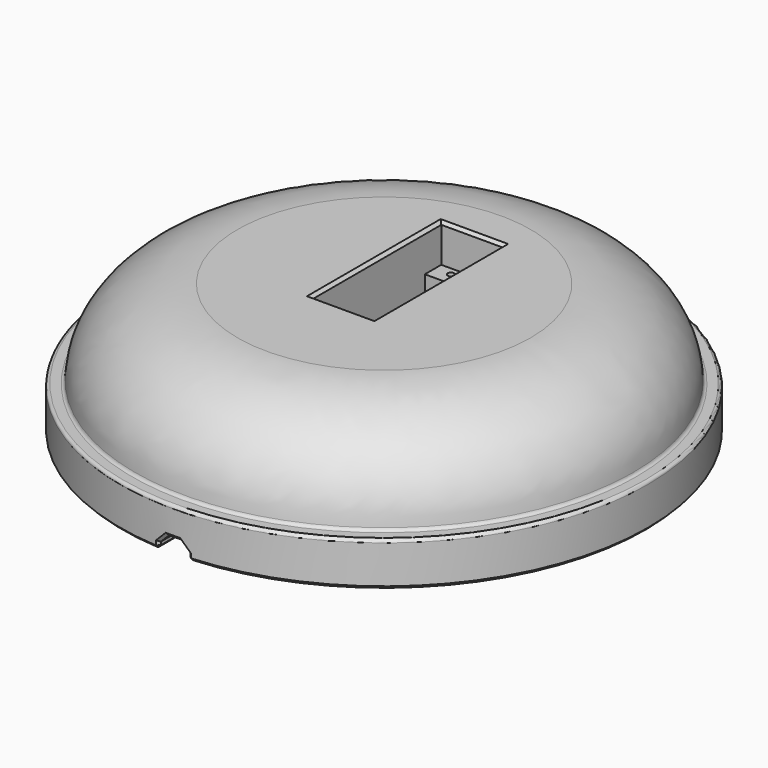
from build123d import *

# Parameters (mm, degrees)
FILLET_R        = 1
POCKET_DEPTH    = 13
POCKET012_DEPTH = 32
SKETCH026_R     = 1.125
POCKET013_DEPTH = 10
POCKET014_DEPTH = 10.5
CHAMFER004_SIZE = 1
POCKET015_DEPTH = 72.5
CHAMFER_SIZE    = 1


with BuildPart() as part:
    # Sketch → Revolution (revolve)
    with BuildSketch(Plane.XZ):
        with BuildLine():
            Line((85, 15), (90, 15))
            Line((90, 15), (90, 0))
            Line((90, 0), (0, 0))
            Line((0, 0), (0, 45))
            Line((0, 45), (50, 45))
            add(Edge.make_bspline(
                [(85, 15), (85, 45), (50, 45)],
                knots=[0, 0, 0, 1.570796, 1.570796, 1.570796], degree=2, weights=[1, 0.707107, 1]))
        make_face()
    revolve(axis=Axis((0, 0, 0), (0, 0, 1)))

    # Fillet
    fillet_edges = [part.edges().sort_by_distance(p)[0] for p in [
        (-90, 0, 15),
        (-85, 0, 15),
    ]]
    fillet(fillet_edges, radius=FILLET_R)

    # Sketch020 → Pocket (cut)
    with BuildSketch(Plane(origin=(0, 0, 45), x_dir=(-1, 0, 0), z_dir=(0, 0, 1))):
        Polygon((-10.5, -37.5), (10.5, -37.5), (10.5, 17.5), (0, 17.5), (-10.5, 17.5), align=None)
    extrude(amount=-POCKET_DEPTH, mode=Mode.SUBTRACT)

    # Sketch025 (on Face13 of Pocket) → Pocket012 (cut)
    with BuildSketch(Plane(origin=(0, 0, 32), x_dir=(-1, 0, 0), z_dir=(0, 0, 1))):
        Polygon((-10.5, -30.5), (10.5, -30.5), (10.5, 10.5), (0, 10.5), (-10.5, 10.5), align=None)
    extrude(amount=-POCKET012_DEPTH, mode=Mode.SUBTRACT)

    # Sketch026 (on Face19 of Pocket012) → Pocket013 (cut)
    with BuildSketch(Plane(origin=(0, 0, 32), x_dir=(-1, 0, 0), z_dir=(0, 0, 1))):
        with Locations((5, 14.75)):
            Circle(SKETCH026_R)
        with Locations((-5, 14.75)):
            Circle(SKETCH026_R)
        with Locations((5, -34.75)):
            Circle(SKETCH026_R)
        with Locations((-5, -34.75)):
            Circle(SKETCH026_R)
    extrude(amount=-POCKET013_DEPTH, mode=Mode.SUBTRACT)

    # Sketch027 → Pocket014 (cut, symmetric)
    with BuildSketch(Plane.YZ):
        Polygon((-10.5, 25), (-17.5, 17.999993), (-17.5, 0), (-10.5, 0), align=None)
        Polygon((30.5, 0), (37.5, 0), (37.5, 18.000002), (30.5, 25), align=None)
    extrude(amount=POCKET014_DEPTH, both=True, mode=Mode.SUBTRACT)

    # Chamfer004
    chamfer004_edges = [part.edges().sort_by_distance(p)[0] for p in [
        (-10.5, 10, 45),
        (0, 37.5, 45),
        (10.5, 10, 45),
        (5.25, -17.5, 45),
        (-5.25, -17.5, 45),
    ]]
    chamfer(chamfer004_edges, length=CHAMFER004_SIZE)

    # Sketch028 (on Face36 of Chamfer004) → Pocket015 (cut)
    with BuildSketch(Plane(origin=(0, -17.5, 0), x_dir=(1, 0, 0), z_dir=(0, 1, 0))):
        Polygon((5, 2.071068), (2.071068, 5), (-2.071068, 5), (-5, 2.071068), (-5, -2.071068), (-2.071068, -5), (2.071068, -5), (5, -2.071068), align=None)
    extrude(amount=-POCKET015_DEPTH, mode=Mode.SUBTRACT)

    # Chamfer
    chamfer_edges = [part.edges().sort_by_distance(p)[0] for p in [
        (65.383484, -61.846584, 0),
        (5, -53.680502, 0),
        (7.75, -17.5, 0),
        (10.5, -14, 0),
        (10.5, 10, 0),
        (10.5, 34, 0),
        (0, 37.5, 0),
        (-10.5, 34, 0),
        (-10.5, 10, 0),
        (-10.5, -14, 0),
        (-7.75, -17.5, 0),
        (-5, -53.680502, 0),
        (-61.846584, 65.383484, 0),
        (-5, -89.861004, 1.035534),
        (-3.535769, -89.93052, 3.535299),
        (0, -90, 5),
        (3.535769, -89.93052, 3.535299),
        (5, -89.861004, 1.035534),
    ]]
    chamfer(chamfer_edges, length=CHAMFER_SIZE)


solid = part.part
